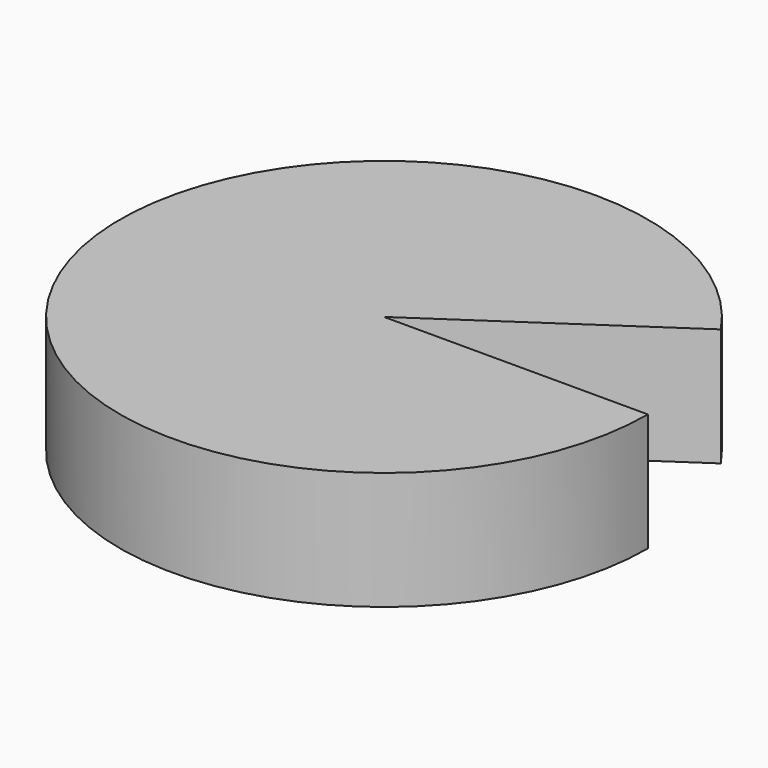
from build123d import *

# Parameters (mm, degrees)
PAD_DEPTH = 10


with BuildPart() as part:
    # Sketch → Pad (new body)
    with BuildSketch(Plane.XY):
        with BuildLine():
            ThreePointArc((18.521776, 12.527721), (-21.379423, -6.551354), (22.360679, 0))
            Line((0, 0), (22.360679, 0))
            Line((0, 0), (18.521776, 12.527721))
        make_face()
    extrude(amount=PAD_DEPTH)


solid = part.part
